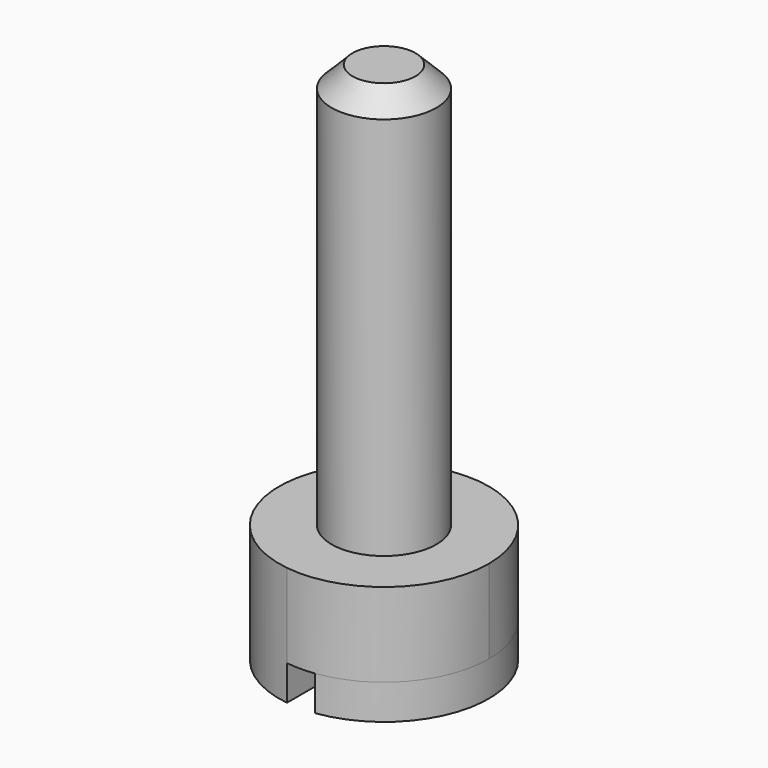
from build123d import *

# Parameters (mm, degrees)
F1_DEPTH = 0.5
F3_DEPTH = 1.2
F4_R     = 0.75
F5_DEPTH = 2
F6_R     = 0.75
F7_DEPTH = 3.8
F8_SIZE  = 0.3
F9_SCALE = 3


with BuildPart() as f1:
    # F0 (on Top) → F1 (new body)
    with BuildSketch(Plane.XY):
        with BuildLine():
            Line((-0.2, -1.4866068747), (-0.2, 1.4866068747))
            ThreePointArc((-0.2, 1.4866068747), (-1.5, 0), (-0.2, -1.4866068747))
        make_face()
    extrude(amount=F1_DEPTH)



with BuildPart() as f1b:
    # F0 (on Top) → F1, piece 2 (new body)
    with BuildSketch(Plane.XY):
        with BuildLine():
            ThreePointArc((0.2, -1.4866068747), (1.5, 0), (0.2, 1.4866068747))
            Line((0.2, 1.4866068747), (0.2, -1.4866068747))
        make_face()
    extrude(amount=F1_DEPTH)


with BuildPart() as f1_1:
    add(f1.part)

    add(f1b.part)  # F3 merges F1b
    # F2 (on face) → F3 (join)
    with BuildSketch(Plane.XY.offset(0.5)):
        with BuildLine():
            Line((-0.2, -1.4866068747), (-0.2, 1.4866068747))
            ThreePointArc((-0.2, 1.4866068747), (-1.5, 0), (-0.2, -1.4866068747))
        make_face()
        with BuildLine():
            ThreePointArc((-0.2, -1.4866068747), (0.9874208829, -1.1291589791), (1.5, 0))
            ThreePointArc((1.5, 0), (0.9874208829, 1.1291589791), (-0.2, 1.4866068747))
            Line((-0.2, 1.4866068747), (-0.2, -1.4866068747))
        make_face()
    extrude(amount=F3_DEPTH)

    # F4 (on face) → F5 (join)
    with BuildSketch(Plane.XY.offset(1.7)):
        Circle(F4_R)
    extrude(amount=F5_DEPTH)

    # F6 (on face) → F7 (join)
    with BuildSketch(Plane.XY.offset(3.7)):
        Circle(F6_R)
    extrude(amount=F7_DEPTH)

    # F8
    f8_edges = [f1_1.edges().sort_by_distance(p)[0] for p in [
        (-0.75, 0, 7.5),
    ]]
    chamfer(f8_edges, length=F8_SIZE)


with BuildPart() as f1_2:
    # F9: moved
    add(f1_1.part.scale(F9_SCALE))


solid = f1_2.part
